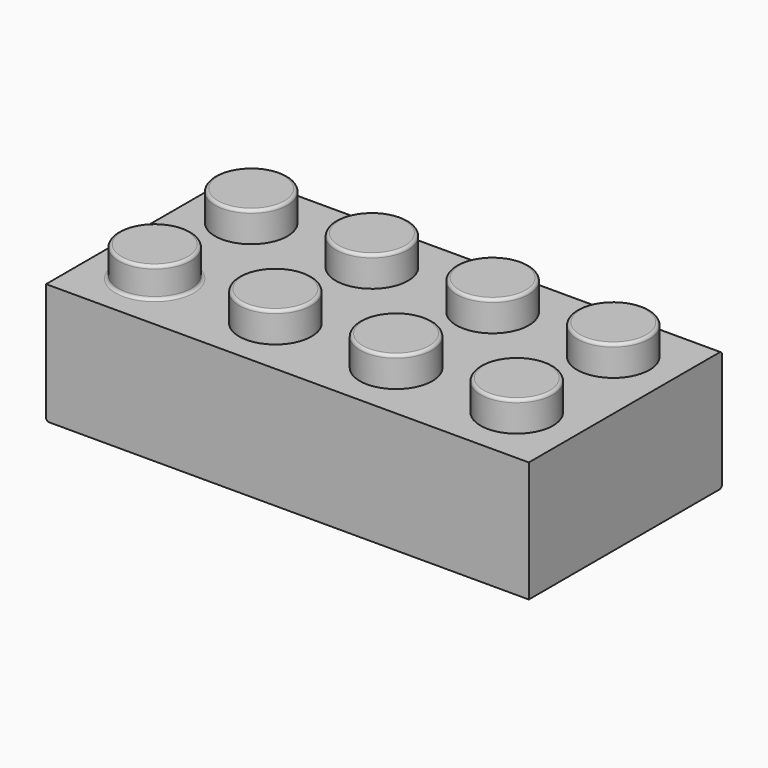
from build123d import *

# Parameters (mm, degrees)
F0_W     = 160
F0_H     = 80
F1_DEPTH = 40
F2_W     = 144
F2_H     = 64
F3_DEPTH = 30
F4_R     = 12
F5_DEPTH = 10
F6_R     = 1
F7_R     = 1
F8_R     = 1
F9_R     = 1


with BuildPart() as f1:
    # F0 (on Top) → F1 (new body)
    with BuildSketch(Plane.XY):
        Rectangle(F0_W, F0_H)
    extrude(amount=F1_DEPTH)

    # F2 (on face) → F3 (cut)
    with BuildSketch(Plane(origin=(0, 0, 0), x_dir=(1, 0, 0), z_dir=(0, 0, -1))):
        Rectangle(F2_W, F2_H)
    extrude(amount=-F3_DEPTH, mode=Mode.SUBTRACT)

    # F4 (on face) → F5 (join)
    with BuildSketch(Plane.XY.offset(40)):
        with Locations((-60, 20)):
            Circle(F4_R)
        with Locations((-60, -20)):
            Circle(F4_R)
        with Locations((-20, 20)):
            Circle(F4_R)
        with Locations((-20, -20)):
            Circle(F4_R)
        with Locations((20, 20)):
            Circle(F4_R)
        with Locations((20, -20)):
            Circle(F4_R)
        with Locations((60, 20)):
            Circle(F4_R)
        with Locations((60, -20)):
            Circle(F4_R)
    extrude(amount=F5_DEPTH)

    # F6
    f6_edges = [f1.edges().sort_by_distance(p)[0] for p in [
        (-72, 20, 50),
    ]]
    fillet(f6_edges, radius=F6_R)

    # F7
    f7_edges = [f1.edges().sort_by_distance(p)[0] for p in [
        (-32, 20, 50),
    ]]
    fillet(f7_edges, radius=F7_R)

    # F8
    f8_edges = [f1.edges().sort_by_distance(p)[0] for p in [
        (8, 20, 50),
        (48, 20, 50),
    ]]
    fillet(f8_edges, radius=F8_R)

    # F9
    f9_edges = [f1.edges().sort_by_distance(p)[0] for p in [
        (-48, -20, 45),
        (-72, -20, 40),
        (-72, -20, 50),
        (-32, -20, 50),
        (8, -20, 50),
        (48, -20, 50),
        (-80, 40, 20),
        (0, 40, 0),
        (0, 40, 40),
        (-80, 0, 0),
        (-72, 32, 15),
        (0, 32, 30),
    ]]
    fillet(f9_edges, radius=F9_R)


solid = f1.part
